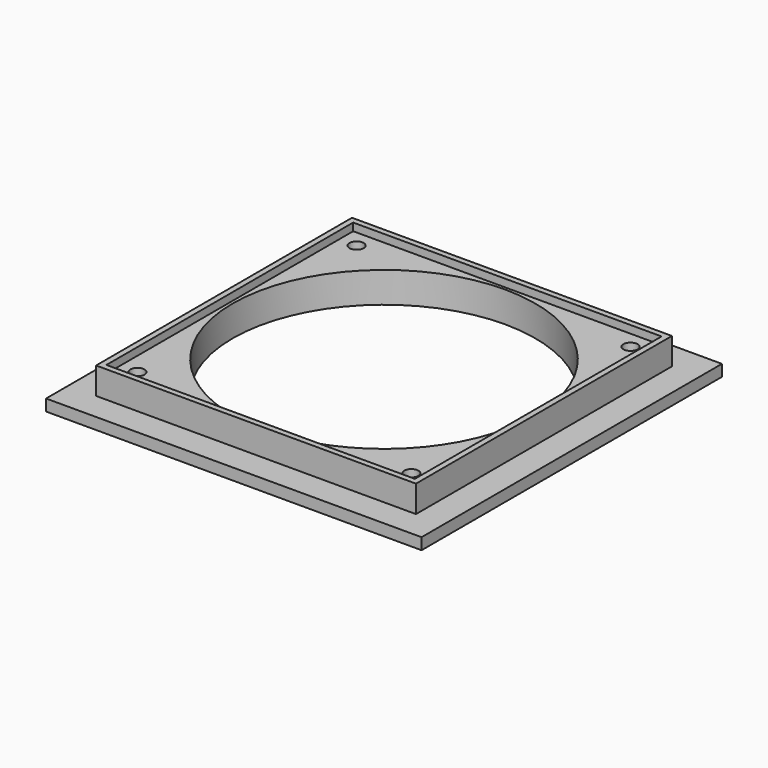
from build123d import *

# Parameters (mm, degrees)
SKETCH_W        = 98
SKETCH_H        = 98
PAD_DEPTH       = 3
SKETCH001_W     = 83.5
SKETCH001_H     = 83.5
PAD001_DEPTH    = 7
SKETCH002_R     = 39.5
POCKET_DEPTH    = 10
SKETCH003_W     = 80.5
SKETCH003_H     = 80.5
POCKET001_DEPTH = 2
SKETCH004_R     = 1.85
POCKET002_DEPTH = 8
SKETCH005_R     = 2.75
POCKET003_DEPTH = 5
CHAMFER_SIZE    = 0.5


with BuildPart() as part:
    # Sketch → Pad (new body)
    with BuildSketch(Plane.XY):
        Rectangle(SKETCH_W, SKETCH_H)
    extrude(amount=PAD_DEPTH)

    # Sketch001 (on Face6 of Pad) → Pad001 (join)
    with BuildSketch(Plane.XY.offset(3)):
        Rectangle(SKETCH001_W, SKETCH001_H)
    extrude(amount=PAD001_DEPTH)

    # Sketch002 (on Face11 of Pad001) → Pocket (cut)
    with BuildSketch(Plane.XY.offset(10)):
        Circle(SKETCH002_R)
    extrude(amount=-POCKET_DEPTH, mode=Mode.SUBTRACT)

    # Sketch003 (on Face12 of Pocket) → Pocket001 (cut)
    with BuildSketch(Plane.XY.offset(10)):
        Rectangle(SKETCH003_W, SKETCH003_H)
    extrude(amount=-POCKET001_DEPTH, mode=Mode.SUBTRACT)

    # Sketch004 (on Face12 of Pocket001) → Pocket002 (cut)
    with BuildSketch(Plane.XY.offset(8)):
        with Locations((-35.75, 35.75)):
            Circle(SKETCH004_R)
        with Locations((35.75, 35.75)):
            Circle(SKETCH004_R)
        with Locations((35.75, -35.75)):
            Circle(SKETCH004_R)
        with Locations((-35.75, -35.75)):
            Circle(SKETCH004_R)
    extrude(amount=-POCKET002_DEPTH, mode=Mode.SUBTRACT)

    # Sketch005 (on Face4 of Pocket002) → Pocket003 (cut)
    with BuildSketch(Plane(origin=(0, 0, 0), x_dir=(1, 0, 0), z_dir=(0, 0, -1))):
        with Locations((-35.75, 35.75)):
            Circle(SKETCH005_R)
        with Locations((35.75, 35.75)):
            Circle(SKETCH005_R)
        with Locations((35.75, -35.75)):
            Circle(SKETCH005_R)
        with Locations((-35.75, -35.75)):
            Circle(SKETCH005_R)
    extrude(amount=-POCKET003_DEPTH, mode=Mode.SUBTRACT)

    # Chamfer
    chamfer_edges = [part.edges().sort_by_distance(p)[0] for p in [
        (33, 35.75, 0),
        (33, -35.75, 0),
        (-38.5, -35.75, 0),
        (-38.5, 35.75, 0),
    ]]
    chamfer(chamfer_edges, length=CHAMFER_SIZE)


solid = part.part
